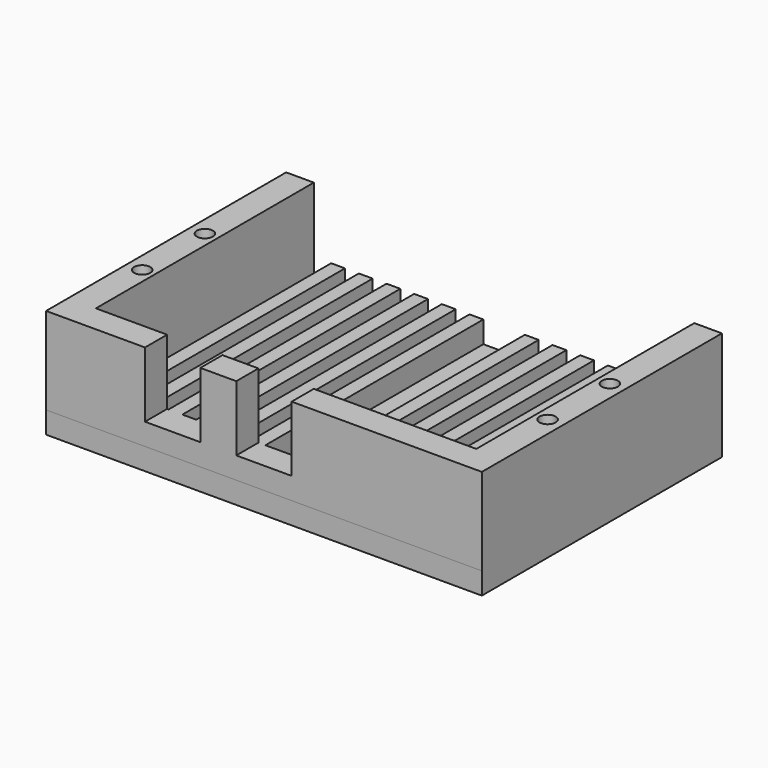
from build123d import *

# Parameters (mm, degrees)
F0_W     = 100
F0_H     = 68.861463
F1_DEPTH = 5
F2_W     = 3.175
F2_H     = 68.861463
F3_DEPTH = 5
F4_W     = 6.35
F4_H     = 62.511463
F4_H_2   = 6.35
F4_W_2   = 87.3
F5_DEPTH = 20
F6_R     = 1.85
F7_DEPTH = 25.001
F8_W     = 12.7
F8_H     = 15
F9_DEPTH = 12.7


with BuildPart() as f1:
    # F0 (on Top) → F1 (new body)
    with BuildSketch(Plane.XY):
        with Locations((5.092296, -16.324246)):
            Rectangle(F0_W, F0_H)
    extrude(amount=-F1_DEPTH)

    # F2 (on face) → F3 (join)
    with BuildSketch(Plane.XY):
        with Locations((-26.644134, -16.324246)):
            Rectangle(F2_W, F2_H)
        with Locations((-32.994134, -16.324246)):
            Rectangle(F2_W, F2_H)
        with Locations((-20.294134, -16.324246)):
            Rectangle(F2_W, F2_H)
        with Locations((-13.944134, -16.324246)):
            Rectangle(F2_W, F2_H)
        with Locations((-7.594134, -16.324246)):
            Rectangle(F2_W, F2_H)
        with Locations((-1.244134, -16.324246)):
            Rectangle(F2_W, F2_H)
        with Locations((11.455866, -16.324246)):
            Rectangle(F2_W, F2_H)
        with Locations((17.805866, -16.324246)):
            Rectangle(F2_W, F2_H)
        with Locations((24.155866, -16.324246)):
            Rectangle(F2_W, F2_H)
        with Locations((30.505866, -16.324246)):
            Rectangle(F2_W, F2_H)
        with Locations((36.855866, -16.324246)):
            Rectangle(F2_W, F2_H)
        with Locations((43.205866, -16.324246)):
            Rectangle(F2_W, F2_H)
    extrude(amount=F3_DEPTH)

    # F4 (on face) → F5 (join)
    with BuildSketch(Plane.XY):
        with Locations((-41.732704, -13.149247)):
            Rectangle(F4_W, F4_H)
        with Locations((-41.732704, -47.579978)):
            Rectangle(F4_W, F4_H_2)
        with Locations((5.092296, -47.579978)):
            Rectangle(F4_W_2, F4_H_2)
        with Locations((51.917296, -47.579978)):
            Rectangle(F4_W, F4_H_2)
        with Locations((51.917296, -13.149247)):
            Rectangle(F4_W, F4_H)
    extrude(amount=F5_DEPTH)

    # F6 (on face) → F7 (cut, through all)
    with BuildSketch(Plane(origin=(0, 0, -5), x_dir=(1, 0, 0), z_dir=(0, 0, -1))):
        with Locations((-41.387634, 27.575926)):
            Circle(F6_R)
        with Locations((51.599746, 27.514396)):
            Circle(F6_R)
        with Locations((-41.413683, 9.564399)):
            Circle(F6_R)
        with Locations((51.624972, 9.70294)):
            Circle(F6_R)
    extrude(amount=-F7_DEPTH, mode=Mode.SUBTRACT)

    # F8 (on face) → F9 (cut)
    with BuildSketch(Plane.XZ.offset(50.754978)):
        Polygon((-1.257704, 5), (5.092296, 5), (11.442296, 5), (11.442296, 20), (-1.257704, 20), align=None)
        with Locations((-15.862704, 12.5)):
            Rectangle(F8_W, F8_H)
    extrude(amount=-F9_DEPTH, mode=Mode.SUBTRACT)


solid = f1.part
